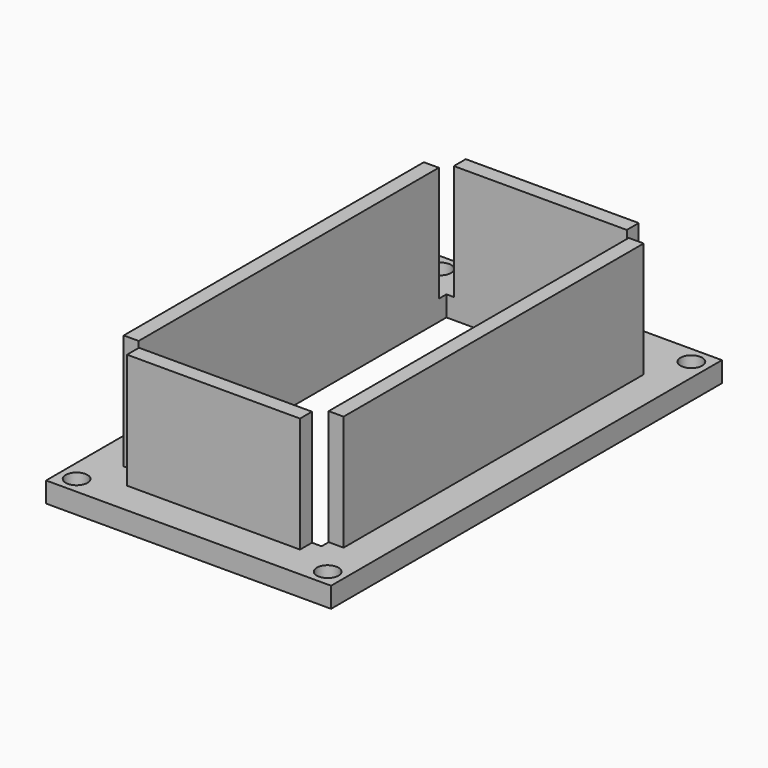
from build123d import *

# Parameters (mm, degrees)
F0_W     = 42
F0_H     = 72
F0_R     = 1.6
F1_DEPTH = 3
F0_W_2   = 25.488504
F0_H_2   = 2.2
F0_W_3   = 2.2
F0_H_3   = 55.283766
F2_DEPTH = 20


with BuildPart() as f1:
    # F0 (on Top) → F1 (new body)
    with BuildSketch(Plane.XY):
        with Locations((-2.088945, 1.718141)):
            Rectangle(F0_W, F0_H)
        with Locations((-20.588945, -31.781859)):
            Circle(F0_R, mode=Mode.SUBTRACT)
        with Locations((16.411055, -31.781859)):
            Circle(F0_R, mode=Mode.SUBTRACT)
        with Locations((-20.588945, 35.218141)):
            Circle(F0_R, mode=Mode.SUBTRACT)
        Polygon((-18.288945, 32.918141), (-14.99591, 32.918141), (10.492594, 32.918141), (14.111055, 32.918141), (14.111055, 29.307075), (14.111055, -25.976691), (14.111055, -27.281859), (14.111055, -29.481859), (10.492594, -29.481859), (-14.99591, -29.481859), (-18.288945, -29.481859), (-18.288945, -25.976691), (-18.288945, 29.307075), align=None, mode=Mode.SUBTRACT)
        with Locations((16.411055, 35.218141)):
            Circle(F0_R, mode=Mode.SUBTRACT)
        Polygon((-16.088945, -27.281859), (-16.088945, -25.976691), (-18.288945, -25.976691), (-18.288945, -29.481859), (-14.99591, -29.481859), (-14.99591, -27.281859), align=None)
        Polygon((-16.088945, 29.307075), (-16.088945, 30.718141), (-14.99591, 30.718141), (-14.99591, 32.918141), (-18.288945, 32.918141), (-18.288945, 29.307075), align=None)
        Polygon((10.492594, 32.918141), (10.492594, 30.718141), (11.911055, 30.718141), (11.911055, 29.307075), (14.111055, 29.307075), (14.111055, 32.918141), align=None)
        Polygon((14.111055, -25.976691), (11.911055, -25.976691), (11.911055, -27.281859), (10.492594, -27.281859), (10.492594, -29.481859), (14.111055, -29.481859), (14.111055, -27.281859), align=None)
    extrude(amount=F1_DEPTH)

    # F0 (on Top) → F2 (join)
    with BuildSketch(Plane.XY):
        with Locations((-2.251658, 31.818141)):
            Rectangle(F0_W_2, F0_H_2)
        with Locations((-17.188945, 1.665192)):
            Rectangle(F0_W_3, F0_H_3)
        with Locations((13.011055, 1.665192)):
            Rectangle(F0_W_3, F0_H_3)
        with Locations((-2.251658, -28.381859)):
            Rectangle(F0_W_2, F0_H_2)
    extrude(amount=F2_DEPTH)


solid = f1.part
